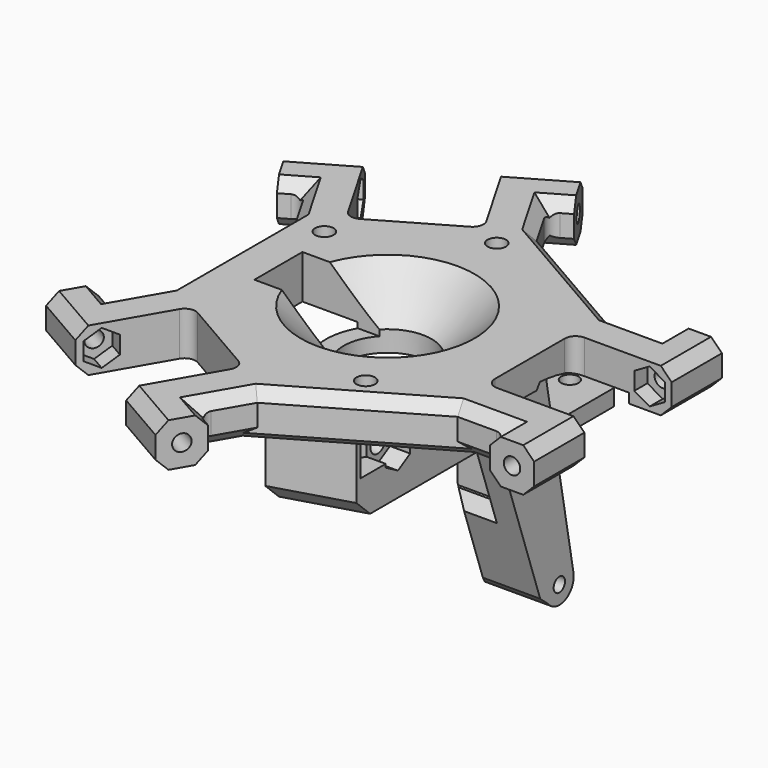
from build123d import *

# Parameters (mm, degrees)
SKETCH145_R          = 8.05
SKETCH145_R_2        = 1.7
PAD038_DEPTH         = 8
SKETCH146_R          = 1.5
POCKET075_DEPTH      = 48.9608200326
POCKET075_DEPTH_BACK = 48.8966369451
POCKET076_DEPTH      = 13
SKETCH148_R          = 1.5
POCKET077_DEPTH      = 59.7108200326
POCKET077_DEPTH_BACK = 62.5944554176
POCKET078_DEPTH      = 13
SKETCH150_R          = 1.5
POCKET079_DEPTH      = 59.6787284888
POCKET079_DEPTH_BACK = 62.6265469614
POCKET080_DEPTH      = 13
SKETCH152_R          = 1.3
PAD039_DEPTH         = 13.5
SKETCH153_W          = 19
SKETCH153_H          = 3
PAD040_DEPTH         = 30
SKETCH154_R          = 11.3
PAD041_DEPTH         = 3.7
SKETCH155_R          = 8.05
POCKET081_DEPTH      = 44.9330440913
POCKET081_DEPTH_BACK = 8.001
SKETCH156_W          = 16
SKETCH156_H          = 11
POCKET082_DEPTH      = 10
SKETCH157_W          = 6.5
SKETCH157_H          = 14.5
POCKET083_DEPTH      = 16
CHAMFER060_SIZE      = 7.9
POCKET084_DEPTH      = 9
SKETCH159_R          = 1.7
POCKET085_DEPTH      = 44.0477875173
POCKET086_DEPTH      = 3.3
SKETCH161_R          = 1.7
POCKET087_DEPTH      = 44.0477875173
POCKET088_DEPTH      = 3.7
SKETCH163_R          = 1.7
POCKET089_DEPTH      = 44.0477875173
POCKET090_DEPTH      = 3.7
PAD042_DEPTH         = 12.6
POCKET091_DEPTH      = 14
POCKET092_DEPTH      = 21.2
SKETCH168_R          = 1.6
POCKET074_DEPTH      = 4.5
CHAMFER061_SIZE      = 4
CHAMFER062_SIZE      = 11
CHAMFER063_SIZE      = 2
CHAMFER064_SIZE      = 2.5
CHAMFER065_SIZE      = 3
CHAMFER066_SIZE      = 3
CHAMFER067_SIZE      = 2
CHAMFER068_SIZE      = 2
CHAMFER069_SIZE      = 2
CHAMFER070_SIZE      = 1
FILLET044_R          = 2


with BuildPart() as part:
    # Sketch145 → Pad038 (new body)
    with BuildSketch(Plane.XY):
        Polygon((-40.6799960629, 27.4598200326), (-30.7207039193, 33.2098200326), (-21.7207039193, 17.6213627645), (-4.4001958437, 27.6213627645), (-13.4001958437, 43.2098200326), (-3.4409037001, 48.9598200326), (0.6090962999, 41.9450142619), (-2.8920614381, 39.9236198994), (1.6579385619, 32.042788725), (26.8467875173, 17.5), (35.9467875173, 17.5), (35.9467875173, 21.5), (44.0467875173, 21.5), (44.0467875173, 10), (26.0467875173, 10), (26.0467875173, -10), (44.0467875173, -10), (44.0467875173, -21.5), (35.9467875173, -21.5), (35.9467875173, -17.5), (26.8467875173, -17.5), (1.7320508076, -32), (-2.8179491924, -39.8808311744), (0.6461524227, -41.8808311744), (-3.4038475773, -48.8956369451), (-13.3631397208, -43.1456369451), (-4.3631397208, -27.557179677), (-21.6836477965, -17.557179677), (-30.6836477965, -33.1456369451), (-40.64293994, -27.3956369451), (-36.59293994, -20.3808311744), (-33.1288383249, -22.3808311744), (-28.5788383249, -14.5), (-28.5788383249, 14.58557745), (-33.1288383249, 22.4664086244), (-36.6299960629, 20.4450142619), align=None)
        Circle(SKETCH145_R, mode=Mode.SUBTRACT)
        with Locations((-21.5, 12.4)):
            Circle(SKETCH145_R_2, mode=Mode.SUBTRACT)
        with Locations((0, 25)):
            Circle(SKETCH145_R_2, mode=Mode.SUBTRACT)
        with Locations((12, -20)):
            Circle(SKETCH145_R_2, mode=Mode.SUBTRACT)
    extrude(amount=PAD038_DEPTH)

    # Sketch146 → Pocket075 (cut, two sides)
    with BuildSketch(Plane.XZ) as pocket075_sk:
        with Locations((40, 4)):
            Circle(SKETCH146_R)
    extrude(amount=-POCKET075_DEPTH, mode=Mode.SUBTRACT)
    extrude(pocket075_sk.sketch, amount=POCKET075_DEPTH_BACK, mode=Mode.SUBTRACT)

    # Sketch147 → Pocket076 (cut, symmetric)
    with BuildSketch(Plane.XZ):
        Polygon((42.8, 2.3834192463), (42.8, 5.6165807537), (40, 7.2331615075), (37.2, 5.6165807537), (37.2, 2.3834192463), (40, 0.7668384925), align=None)
    extrude(amount=POCKET076_DEPTH, both=True, mode=Mode.SUBTRACT)

    # Sketch148 (on DatumPlane) → Pocket077 (cut, two sides)
    with BuildSketch(Plane(origin=(0, 0, 0), x_dir=(0.5, 0.8660254038, 0), z_dir=(0.8660254038, -0.5, 0))) as pocket077_sk:
        with Locations((-40, 4)):
            Circle(SKETCH148_R)
    extrude(amount=-POCKET077_DEPTH, mode=Mode.SUBTRACT)
    extrude(pocket077_sk.sketch, amount=POCKET077_DEPTH_BACK, mode=Mode.SUBTRACT)

    # Sketch149 (on DatumPlane) → Pocket078 (cut, symmetric)
    with BuildSketch(Plane(origin=(0, 0, 0), x_dir=(0.5, 0.8660254038, 0), z_dir=(0.8660254038, -0.5, 0))):
        Polygon((-37.2, 2.3834192463), (-37.2, 5.6165807537), (-40, 7.2331615074), (-42.8, 5.6165807537), (-42.8, 2.3834192463), (-40, 0.7668384926), align=None)
    extrude(amount=POCKET078_DEPTH, both=True, mode=Mode.SUBTRACT)

    # Sketch150 (on DatumPlane) → Pocket079 (cut, two sides)
    with BuildSketch(Plane(origin=(0, 0, 0), x_dir=(-0.5, 0.8660254038, 0), z_dir=(0.8660254038, 0.5, 0))) as pocket079_sk:
        with Locations((40, 4)):
            Circle(SKETCH150_R)
    extrude(amount=-POCKET079_DEPTH, mode=Mode.SUBTRACT)
    extrude(pocket079_sk.sketch, amount=POCKET079_DEPTH_BACK, mode=Mode.SUBTRACT)

    # Sketch151 (on DatumPlane) → Pocket080 (cut, symmetric)
    with BuildSketch(Plane(origin=(0, 0, 0), x_dir=(-0.5, 0.8660254038, 0), z_dir=(0.8660254038, 0.5, 0))):
        Polygon((42.8, 2.3834192463), (42.8, 5.6165807537), (40, 7.2331615075), (37.2, 5.6165807537), (37.2, 2.3834192463), (40, 0.7668384925), align=None)
    extrude(amount=POCKET080_DEPTH, both=True, mode=Mode.SUBTRACT)

    # Sketch152 → Pad039 (join)
    with BuildSketch(Plane.YZ.offset(13.5)):
        with BuildLine():
            Line((-24, 0), (19.5, 0))
            Line((19.5, 0), (19.5, -7.6))
            Line((19.5, -7.6), (25.6960078667, -41.0306668572))
            ThreePointArc((19.8686597542, -43.6863423922), (23.8197543725, -44.6349162852), (25.6960078667, -41.0306668572))
            Line((18.0740048268, -42.1474554875), (19.8686597542, -43.6863423922))
            Line((7.9, -12.6), (18.0740048268, -42.1474554875))
            Line((-24, -12.6), (7.9, -12.6))
            Line((-24, -12.6), (-24, 0))
        make_face()
        with Locations((22.4512666718, -41.6320440913)):
            Circle(SKETCH152_R, mode=Mode.SUBTRACT)
    extrude(amount=-PAD039_DEPTH)

    # Sketch153 → Pad040 (join)
    with BuildSketch(Plane.YZ.offset(13.5)):
        with Locations((29.5, -16.5)):
            Rectangle(SKETCH153_W, SKETCH153_H)
    extrude(amount=-PAD040_DEPTH)

    # Sketch154 → Pad041 (join)
    with BuildSketch(Plane.XY):
        Circle(SKETCH154_R)
    extrude(amount=-PAD041_DEPTH)

    # Sketch155 → Pocket081 (cut, two sides)
    with BuildSketch(Plane.XY) as pocket081_sk:
        Circle(SKETCH155_R)
    extrude(amount=-POCKET081_DEPTH, mode=Mode.SUBTRACT)
    extrude(pocket081_sk.sketch, amount=POCKET081_DEPTH_BACK, mode=Mode.SUBTRACT)

    # Sketch156 → Pocket082 (cut)
    with BuildSketch(Plane.XY.offset(-1)):
        with Locations((-12, 0)):
            Rectangle(SKETCH156_W, SKETCH156_H)
    extrude(amount=POCKET082_DEPTH, mode=Mode.SUBTRACT)

    # Sketch157 → Pocket083 (cut)
    with BuildSketch(Plane.XZ):
        with Locations((3.25, -20.05)):
            Rectangle(SKETCH157_W, SKETCH157_H)
    extrude(amount=-POCKET083_DEPTH, mode=Mode.SUBTRACT)

    # Chamfer060
    chamfer060_edges = [part.edges().sort_by_distance(p)[0] for p in [
        (2.956645, 7.487373, 8),
        (2.956645, -7.487373, 8),
    ]]
    chamfer(chamfer060_edges, length=CHAMFER060_SIZE)

    # Sketch158 → Pocket084 (cut)
    with BuildSketch(Plane.XY.offset(3)):
        Polygon((15.579571669, -20), (13.7897858345, -16.9), (10.2102141655, -16.9), (8.420428331, -20), (10.2102141655, -23.1), (13.7897858345, -23.1), align=None)
    extrude(amount=-POCKET084_DEPTH, mode=Mode.SUBTRACT)

    # Sketch159 → Pocket085 (cut, through all)
    with BuildSketch(Plane.YZ):
        with Locations((-20.5, -3.9)):
            Circle(SKETCH159_R)
    extrude(amount=POCKET085_DEPTH, mode=Mode.SUBTRACT)

    # Sketch160 → Pocket086 (cut)
    with BuildSketch(Plane.YZ):
        Polygon((-17.7, -5.5165807537), (-17.7, -2.2834192463), (-20.5, -0.6668384925), (-23.3, -2.2834192463), (-23.3, -5.5165807537), (-20.5, -7.1331615075), align=None)
    extrude(amount=POCKET086_DEPTH, mode=Mode.SUBTRACT)

    # Sketch161 → Pocket087 (cut, through all)
    with BuildSketch(Plane.YZ):
        with Locations((-14.5, -5)):
            Circle(SKETCH161_R)
    extrude(amount=POCKET087_DEPTH, mode=Mode.SUBTRACT)

    # Sketch162 → Pocket088 (cut)
    with BuildSketch(Plane.YZ.offset(13.5)):
        Polygon((-11.7, -6.6165807537), (-11.7, -3.3834192463), (-14.5, -1.7668384925), (-17.3, -3.3834192463), (-17.3, -6.6165807537), (-14.5, -8.2331615075), align=None)
    extrude(amount=-POCKET088_DEPTH, mode=Mode.SUBTRACT)

    # Sketch163 → Pocket089 (cut, through all)
    with BuildSketch(Plane.YZ):
        with Locations((14.85, -5)):
            Circle(SKETCH163_R)
    extrude(amount=POCKET089_DEPTH, mode=Mode.SUBTRACT)

    # Sketch164 → Pocket090 (cut)
    with BuildSketch(Plane.YZ.offset(13.5)):
        Polygon((17.65, -6.6165807537), (17.65, -3.3834192463), (14.85, -1.7668384925), (12.05, -3.3834192463), (12.05, -6.6165807537), (14.85, -8.2331615075), align=None)
    extrude(amount=-POCKET090_DEPTH, mode=Mode.SUBTRACT)

    # Sketch165 → Pad042 (join)
    with BuildSketch(Plane.XY):
        Polygon((0, -24), (0, -28), (13.5, -24), align=None)
    extrude(amount=-PAD042_DEPTH)

    # Sketch166 → Pocket091 (cut)
    with BuildSketch(Plane.YZ.offset(27)):
        with BuildLine():
            ThreePointArc((10.2, 0), (0, 2.2753596117), (-10.2, 0))
            Line((-10.2, 0), (10.2, 0))
        make_face()
    extrude(amount=-POCKET091_DEPTH, mode=Mode.SUBTRACT)

    # Sketch167 → Pocket092 (cut)
    with BuildSketch(Plane.YZ.offset(36.2)):
        with BuildLine():
            ThreePointArc((14, 0), (8.3455086437, 2.3014837782), (2.3266113252, 3.3227453265))
            Line((0, 0), (2.3266113252, 3.3227453265))
            Line((0, 0), (14, 0))
        make_face()
    extrude(amount=-POCKET092_DEPTH, mode=Mode.SUBTRACT)

    # Sketch168 → Pocket074 (cut, symmetric)
    with BuildSketch(Plane.XY.offset(-18)):
        with Locations((7, 33)):
            Circle(SKETCH168_R)
        with Locations((-11, 33)):
            Circle(SKETCH168_R)
    extrude(amount=POCKET074_DEPTH, both=True, mode=Mode.SUBTRACT)

    # Chamfer061
    chamfer061_edges = [part.edges().sort_by_distance(p)[0] for p in [
        (-16.5, 39, -16.5),
        (13.5, 39, -16.5),
    ]]
    chamfer(chamfer061_edges, length=CHAMFER061_SIZE)

    # Chamfer062
    chamfer062_edges = [part.edges().sort_by_distance(p)[0] for p in [
        (-16.5, 20, -16.5),
    ]]
    chamfer(chamfer062_edges, length=CHAMFER062_SIZE)

    # Chamfer063
    chamfer063_edges = [part.edges().sort_by_distance(p)[0] for p in [
        (6.75, 20.871509, -15),
        (6.75, 21.427526, -18),
    ]]
    chamfer(chamfer063_edges, length=CHAMFER063_SIZE)

    # Chamfer064
    chamfer064_edges = [part.edges().sort_by_distance(p)[0] for p in [
        (6.5, 10.465241, -20.05),
        (3.25, 12.961616, -27.3),
    ]]
    chamfer(chamfer064_edges, length=CHAMFER064_SIZE)

    # Chamfer065
    chamfer065_edges = [part.edges().sort_by_distance(p)[0] for p in [
        (0, 15.924771, -35.905626),
    ]]
    chamfer(chamfer065_edges, length=CHAMFER065_SIZE)

    # Chamfer066
    chamfer066_edges = [part.edges().sort_by_distance(p)[0] for p in [
        (6.75, -26, -12.6),
    ]]
    chamfer(chamfer066_edges, length=CHAMFER066_SIZE)

    # Chamfer067
    chamfer067_edges = [part.edges().sort_by_distance(p)[0] for p in [
        (-28.578838, 0.042789, 0),
        (-30.853838, -18.440416, 0),
        (-34.860889, -21.380831, 0),
        (-30.853838, 18.525993, 0),
        (-34.879417, 21.455711, 0),
    ]]
    chamfer(chamfer067_edges, length=CHAMFER067_SIZE)

    # Chamfer068
    chamfer068_edges = [part.edges().sort_by_distance(p)[0] for p in [
        (-35.663294, -30.270637, 8),
        (-8.383494, -46.020637, 8),
        (-1.085898, -40.880831, 8),
        (-0.542949, -35.940416, 8),
        (14.289419, -24.75, 8),
        (31.396788, -17.5, 8),
        (35.946788, -19.5, 8),
        (44.046788, -15.75, 8),
        (44.046788, 15.75, 8),
        (35.946788, 19.5, 8),
        (31.396788, 17.5, 8),
        (14.252363, 24.771394, 8),
        (-0.617061, 35.983204, 8),
        (-1.141483, 40.934317, 8),
        (-8.42055, 46.08482, 8),
        (-35.70035, 30.33482, 8),
        (-34.879417, 21.455711, 8),
        (-30.853838, 18.525993, 8),
        (-28.578838, 0.042789, 8),
        (-30.853838, -18.440416, 8),
        (-34.860889, -21.380831, 8),
    ]]
    chamfer(chamfer068_edges, length=CHAMFER068_SIZE)

    # Chamfer069
    chamfer069_edges = [part.edges().sort_by_distance(p)[0] for p in [
        (44.046788, 15.75, 0),
        (35.946788, 19.5, 0),
        (31.396788, 17.5, 0),
        (14.252363, 24.771394, 0),
        (-0.617061, 35.983204, 0),
        (-1.141483, 40.934317, 0),
        (-8.42055, 46.08482, 0),
        (-35.70035, 30.33482, 0),
        (-35.663294, -30.270637, 0),
        (-8.383494, -46.020637, 0),
        (44.046788, -15.75, 0),
        (35.946788, -19.5, 0),
        (31.396788, -17.5, 0),
        (-1.085898, -40.880831, 0),
        (-0.542949, -35.940416, 0),
    ]]
    chamfer(chamfer069_edges, length=CHAMFER069_SIZE)

    # Chamfer070
    chamfer070_edges = [part.edges().sort_by_distance(p)[0] for p in [
        (28.578838, -16.5, 0),
        (14.289419, -24.75, 0),
        (0, -33, 0),
    ]]
    chamfer(chamfer070_edges, length=CHAMFER070_SIZE)

    # Fillet044
    fillet044_edges = [part.edges().sort_by_distance(p)[0] for p in [
        (-33.128838, -22.380831, 4),
        (-33.128838, 22.466409, 4),
        (-2.817949, -39.880831, 4),
        (35.946788, -17.5, 4),
        (-2.892061, 39.92362, 4),
        (35.946788, 17.5, 4),
        (-21.720704, 17.621363, 4),
        (-4.400196, 27.621363, 4),
        (-4.36314, -27.55718, 4),
        (-21.683648, -17.55718, 4),
        (26.046788, -10, 4.046392),
        (26.046788, 10, 4.887284),
    ]]
    fillet(fillet044_edges, radius=FILLET044_R)


solid = part.part
